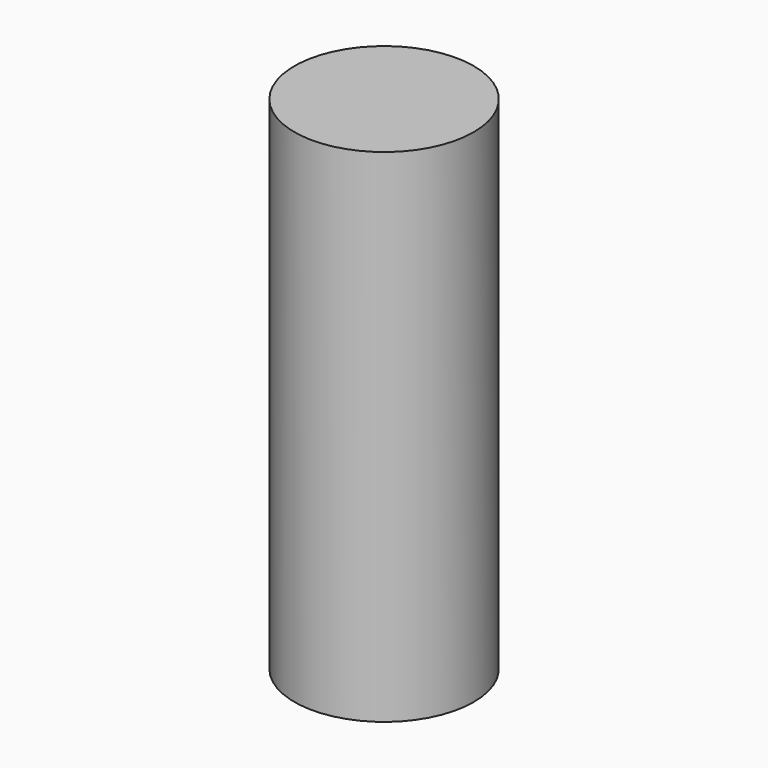
from build123d import *

# Parameters (mm, degrees)
CYLINDER_R     = 2.6797
CYLINDER_DEPTH = 15


with BuildPart() as part:
    # Cylinder → Cylinder (new body)
    with BuildSketch(Plane.XY.offset(-2.5)):
        Circle(CYLINDER_R)
    extrude(amount=CYLINDER_DEPTH)


solid = part.part
